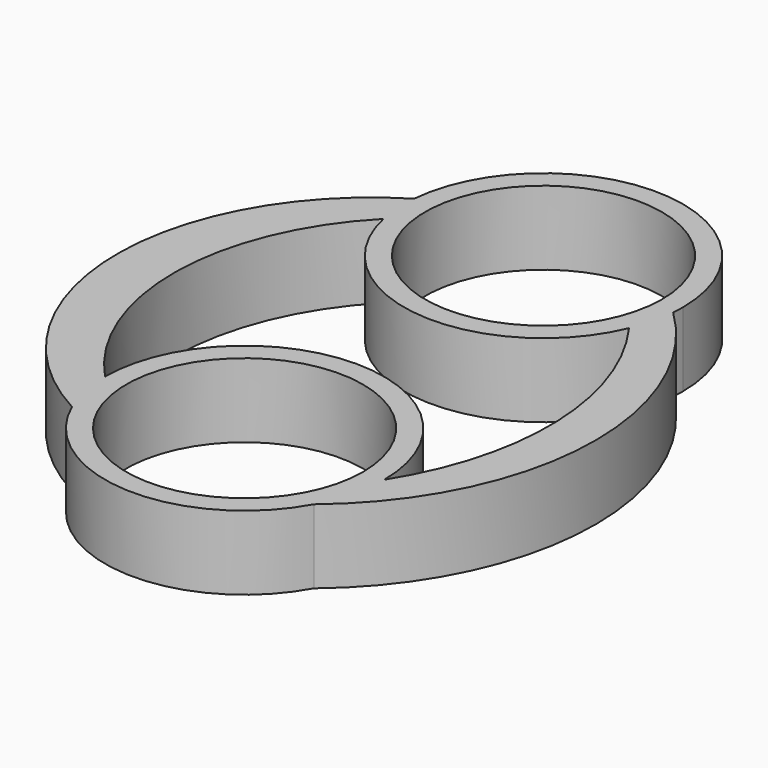
from build123d import *

# Parameters (mm, degrees)
F0_R     = 11.2
F1_DEPTH = 7


with BuildPart() as f1:
    # F0 (on Top) → F1 (new body)
    with BuildSketch(Plane.XY):
        with BuildLine():
            ThreePointArc((11.59233, -6.31331), (12.79177, -3.257395), (13.2, 0))
            ThreePointArc((13.2, 0), (0, 13.2), (-13.2, 0))
            ThreePointArc((-13.2, 0), (-12.920509, -2.701933), (-12.093872, -5.289448))
            ThreePointArc((-12.093872, -5.289448), (-0.570052, -13.187685), (11.59233, -6.31331))
        make_face()
        Circle(F0_R, mode=Mode.SUBTRACT)
        with BuildLine():
            ThreePointArc((12.173578, 30.230427), (17.326701, 15.272754), (13.2, 0))
            ThreePointArc((13.2, 0), (12.79177, -3.257395), (11.59233, -6.31331))
            ThreePointArc((11.59233, -6.31331), (21.438452, 13.603178), (13.152736, 34.217724))
            ThreePointArc((13.152736, 34.217724), (12.819133, 32.185772), (12.173578, 30.230427))
        make_face()
        with BuildLine():
            ThreePointArc((-12.093872, -5.289448), (-12.920509, -2.701933), (-13.2, 0))
            ThreePointArc((-13.2, 0), (-19.597353, 16.33302), (-12.902327, 32.546295))
            ThreePointArc((-12.902327, 32.546295), (-13.174098, 34.507228), (-13.149548, 36.486753))
            ThreePointArc((-13.149548, 36.486753), (-24.758622, 15.291955), (-12.093872, -5.289448))
        make_face()
        with BuildLine():
            ThreePointArc((-12.902327, 32.546295), (-1.213911, 22.189696), (12.173578, 30.230427))
            ThreePointArc((12.173578, 30.230427), (12.819133, 32.185772), (13.152736, 34.217724))
            ThreePointArc((13.152736, 34.217724), (13.188179, 34.775242), (13.2, 35.33376))
            ThreePointArc((13.2, 35.33376), (0.577048, 48.521141), (-13.149548, 36.486753))
            ThreePointArc((-13.149548, 36.486753), (-13.174098, 34.507228), (-12.902327, 32.546295))
        make_face()
        with Locations((0, 35.33376)):
            Circle(F0_R, mode=Mode.SUBTRACT)
    extrude(amount=F1_DEPTH)


solid = f1.part
